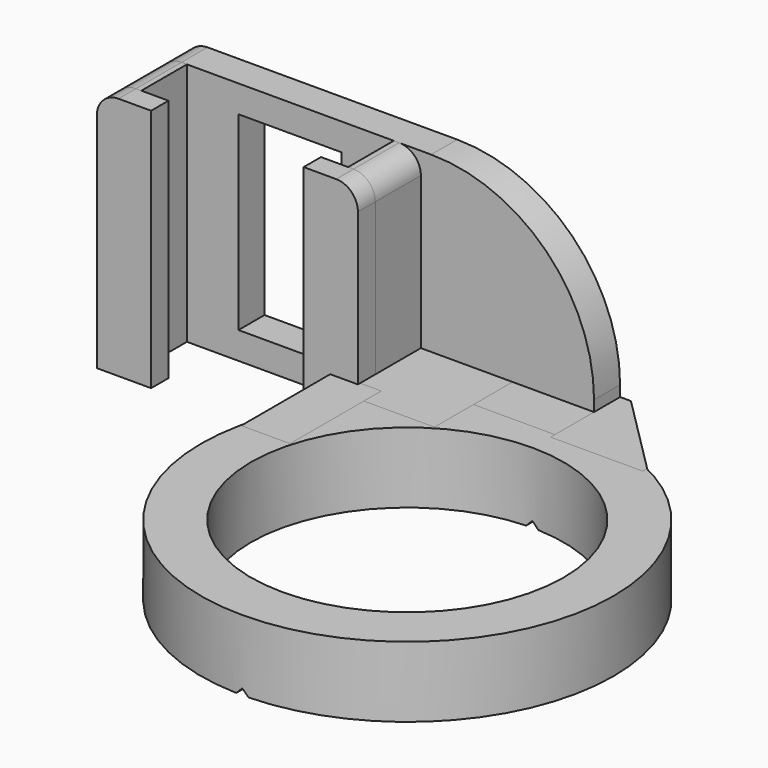
from build123d import *

# Parameters (mm, degrees)
SKETCH_R             = 38
PAD_DEPTH            = 13
SKETCH001_R          = 28.8
POCKET_DEPTH         = 13.001
POCKET001_DEPTH      = 38.001
POCKET001_DEPTH_BACK = 38.001
BOX005_W             = 15
BOX005_H             = 9
BOX005_DEPTH         = 13
BOX007_W             = 17
BOX007_H             = 18
BOX007_DEPTH         = 13
BOX008_W             = 9
BOX008_H             = 21
BOX008_DEPTH         = 13
BOX006_W             = 17
BOX006_H             = 16
BOX006_DEPTH         = 13
CHAMFER_SIZE         = 15
BOX009_W             = 19
BOX009_H             = 6
BOX009_DEPTH         = 35
BOX_W                = 80
BOX_H                = 6
BOX_DEPTH            = 45
FILLET_R             = 30
FILLET001_R          = 4
BOX001_W             = 5
BOX001_H             = 10.5
BOX001_DEPTH         = 45
FILLET002_R          = 4
BOX002_W             = 10
BOX002_H             = 4
BOX002_DEPTH         = 45
FILLET003_R          = 4
BOX003_W             = 5
BOX003_H             = 10.5
BOX003_DEPTH         = 45
FILLET004_R          = 4
BOX004_W             = 10
BOX004_H             = 4
BOX004_DEPTH         = 45
FILLET005_R          = 4


with BuildPart() as body:
    # Sketch → Pad (new body)
    with BuildSketch(Plane.XY):
        Circle(SKETCH_R)
    extrude(amount=PAD_DEPTH)

    # Sketch001 (on Face3 of Pad) → Pocket (cut, through all)
    with BuildSketch(Plane.XY.offset(13)):
        Circle(SKETCH001_R)
    extrude(amount=-POCKET_DEPTH, mode=Mode.SUBTRACT)

    # Sketch004 → Pocket001 (cut, two sides)
    with BuildSketch(Plane.XZ) as pocket001_sk:
        Polygon((1.5, -0.371425), (0, 1.128575), (-1.5, -0.371425), align=None)
    extrude(amount=POCKET001_DEPTH, mode=Mode.SUBTRACT)
    extrude(pocket001_sk.sketch, amount=-POCKET001_DEPTH_BACK, mode=Mode.SUBTRACT)


with BuildPart() as cube005:
    # Box005 → Box005 (new body)
    with BuildSketch(Plane(origin=(-15, 34, 0), x_dir=(1, 0, 0), z_dir=(0, 0, 1))):
        with Locations((7.5, 4.5)):
            Rectangle(BOX005_W, BOX005_H)
    extrude(amount=BOX005_DEPTH)


with BuildPart() as cube007:
    # Box007 → Box007 (new body)
    with BuildSketch(Plane(origin=(-32, 25, 0), x_dir=(1, 0, 0), z_dir=(0, 0, 1))):
        with Locations((8.5, 9)):
            Rectangle(BOX007_W, BOX007_H)
    extrude(amount=BOX007_DEPTH)


with BuildPart() as cube008:
    # Box008 → Box008 (new body)
    with BuildSketch(Plane(origin=(-37, 8, 0), x_dir=(1, 0, 0), z_dir=(0, 0, 1))):
        with Locations((4.5, 10.5)):
            Rectangle(BOX008_W, BOX008_H)
    extrude(amount=BOX008_DEPTH)


with BuildPart() as chamfer_body:
    # Box006 → Box006 (new body)
    with BuildSketch(Plane(origin=(0, 33, 0), x_dir=(1, 0, 0), z_dir=(0, 0, 1))):
        with Locations((8.5, 8)):
            Rectangle(BOX006_W, BOX006_H)
    extrude(amount=BOX006_DEPTH)

    # Chamfer
    chamfer_edges = [chamfer_body.edges().sort_by_distance(p)[0] for p in [
        (17, 49, 6.5),
    ]]
    chamfer(chamfer_edges, length=CHAMFER_SIZE)


with BuildPart() as cube009:
    # Box009 → Box009 (new body)
    with BuildSketch(Plane(origin=(-65.5, 34, 5), x_dir=(1, 0, 0), z_dir=(0, 0, 1))):
        with Locations((9.5, 3)):
            Rectangle(BOX009_W, BOX009_H)
    extrude(amount=BOX009_DEPTH)


with BuildPart() as fillet001:
    # Box → Box (new body)
    with BuildSketch(Plane(origin=(-80, 34, 0), x_dir=(1, 0, 0), z_dir=(0, 0, 1))):
        with Locations((40, 3)):
            Rectangle(BOX_W, BOX_H)
    extrude(amount=BOX_DEPTH)

    # Cut: cut Cube009
    add(cube009.part, mode=Mode.SUBTRACT)


with BuildPart() as fillet001_1:
    # Cut placement: moved
    add(fillet001.part.moved(Location((0, 9, 0))))

    # Fillet
    fillet_edges = [fillet001_1.edges().sort_by_distance(p)[0] for p in [
        (0, 46, 45),
    ]]
    fillet(fillet_edges, radius=FILLET_R)

    # Fillet001
    fillet001_edges = [fillet001_1.edges().sort_by_distance(p)[0] for p in [
        (-80, 46, 45),
    ]]
    fillet(fillet001_edges, radius=FILLET001_R)


with BuildPart() as fillet002:
    # Box001 → Box001 (new body)
    with BuildSketch(Plane(origin=(-80, 32.5, 0), x_dir=(1, 0, 0), z_dir=(0, 0, 1))):
        with Locations((2.5, 5.25)):
            Rectangle(BOX001_W, BOX001_H)
    extrude(amount=BOX001_DEPTH)

    # Fillet002
    fillet002_edges = [fillet002.edges().sort_by_distance(p)[0] for p in [
        (-80, 37.75, 45),
    ]]
    fillet(fillet002_edges, radius=FILLET002_R)


with BuildPart() as fillet003:
    # Box002 → Box002 (new body)
    with BuildSketch(Plane(origin=(-80, 28.5, 0), x_dir=(1, 0, 0), z_dir=(0, 0, 1))):
        with Locations((5, 2)):
            Rectangle(BOX002_W, BOX002_H)
    extrude(amount=BOX002_DEPTH)

    # Fillet003
    fillet003_edges = [fillet003.edges().sort_by_distance(p)[0] for p in [
        (-80, 30.5, 45),
    ]]
    fillet(fillet003_edges, radius=FILLET003_R)


with BuildPart() as fillet004:
    # Box003 → Box003 (new body)
    with BuildSketch(Plane(origin=(-36.9, 32.5, 0), x_dir=(1, 0, 0), z_dir=(0, 0, 1))):
        with Locations((2.5, 5.25)):
            Rectangle(BOX003_W, BOX003_H)
    extrude(amount=BOX003_DEPTH)

    # Fillet004
    fillet004_edges = [fillet004.edges().sort_by_distance(p)[0] for p in [
        (-31.9, 37.75, 45),
    ]]
    fillet(fillet004_edges, radius=FILLET004_R)


with BuildPart() as fillet005:
    # Box004 → Box004 (new body)
    with BuildSketch(Plane(origin=(-41.9, 28.5, 0), x_dir=(1, 0, 0), z_dir=(0, 0, 1))):
        with Locations((5, 2)):
            Rectangle(BOX004_W, BOX004_H)
    extrude(amount=BOX004_DEPTH)

    # Fillet005
    fillet005_edges = [fillet005.edges().sort_by_distance(p)[0] for p in [
        (-31.9, 30.5, 45),
    ]]
    fillet(fillet005_edges, radius=FILLET005_R)


solid = Compound([body.part, cube005.part, cube007.part, cube008.part, chamfer_body.part, fillet001_1.part, fillet002.part, fillet003.part, fillet004.part, fillet005.part])
